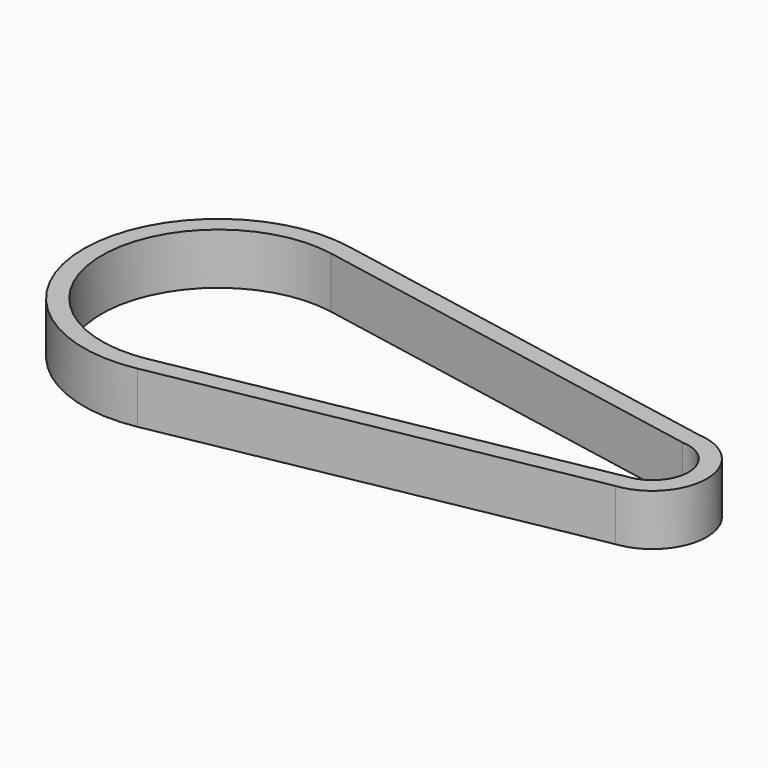
from build123d import *

# Parameters (mm, degrees)
F1_DEPTH = 9


with BuildPart() as f1:
    # F0 (on Top) → F1 (new body)
    with BuildSketch(Plane.XY):
        with BuildLine():
            ThreePointArc((77.249066, -9.467053), (85.722508, 0.217848), (76.815037, 9.505123))
            Line((76.815037, 9.505123), (4.376276, 23.18077))
            ThreePointArc((4.376276, 23.18077), (-23.590249, 0.006857), (4.362801, -23.18331))
            Line((4.362801, -23.18331), (77.249066, -9.467053))
        make_face()
        with BuildLine():
            ThreePointArc((3.775614, -20.06308), (-20.415249, 0.005934), (3.787276, 20.060882))
            Line((3.787276, 20.060882), (76.435884, 6.345617))
            ThreePointArc((76.435884, 6.345617), (82.547494, 0.178391), (76.791906, -6.322353))
            Line((76.791906, -6.322353), (3.775614, -20.06308))
        make_face(mode=Mode.SUBTRACT)
    extrude(amount=F1_DEPTH)


solid = f1.part
